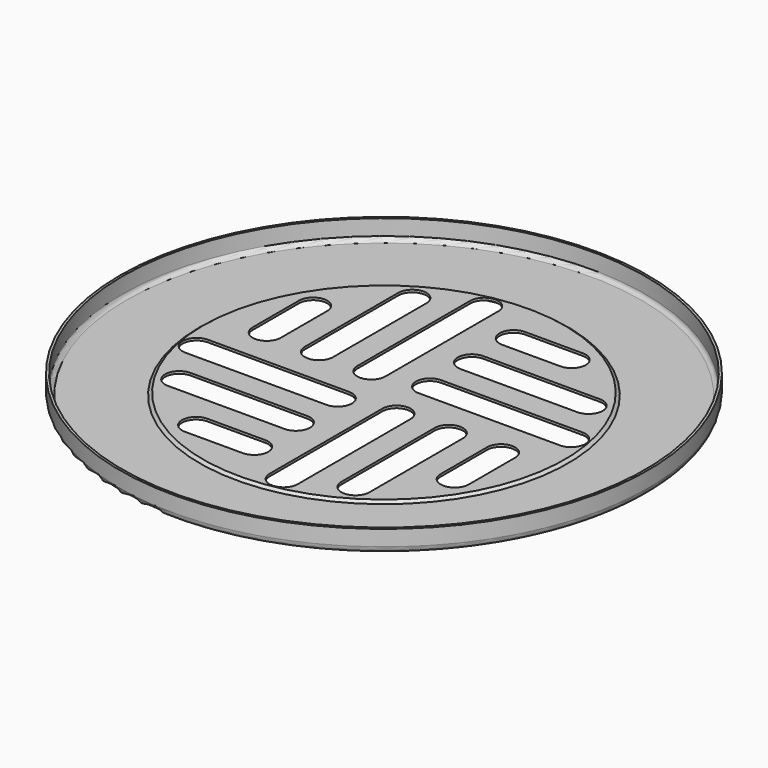
from build123d import *

# Parameters (mm, degrees)
F3_DEPTH = 4.896274


with BuildPart() as f1:
    # F0 (on Front) → F1 (revolve)
    with BuildSketch(Plane.XZ):
        with BuildLine():
            Line((-65, 1), (-65, 4.895274))
            Line((-65, 4.895274), (-65.6, 4.895274))
            Line((-65.6, 4.895274), (-65.6, 1))
            ThreePointArc((-65.6, 1), (-65.131371, -0.131371), (-64, -0.6))
            Line((-64, -0.6), (-45.582217, -0.6))
            Line((-45.582217, -0.6), (-44.797003, 0))
            Line((-44.797003, 0), (0, 0))
            Line((0, 0), (0, 0.6))
            Line((0, 0.6), (-45, 0.6))
            Line((-45, 0.6), (-45.785214, 0))
            Line((-45.785214, 0), (-64, 0))
            ThreePointArc((-64, 0), (-64.707107, 0.292893), (-65, 1))
        make_face()
    revolve(axis=Axis((0, 0, 2.485013), (0, 0, -1)))

    # F2 (on Top) → F3 (cut, through all)
    with BuildSketch(Plane.XY):
        with BuildLine():
            Line((-5.467376, -4), (-40.467376, -4))
            ThreePointArc((-40.467376, -4), (-44.034095, -7.466402), (-40.533936, -11))
            Line((-40.533936, -11), (-5.467376, -11))
            ThreePointArc((-5.467376, -11), (-1.967376, -7.5), (-5.467376, -4))
        make_face()
        with BuildLine():
            Line((-5.467376, -17), (-34.467376, -17))
            ThreePointArc((-34.467376, -17), (-37.967376, -20.5), (-34.467376, -24))
            Line((-34.467376, -24), (-5.467376, -24))
            ThreePointArc((-5.467376, -24), (-1.967376, -20.5), (-5.467376, -17))
        make_face()
        with BuildLine():
            Line((-5.467376, -30), (-19.874607, -30))
            ThreePointArc((-19.874607, -30), (-23.374607, -33.5), (-19.874607, -37))
            Line((-19.874607, -37), (-5.467376, -37))
            ThreePointArc((-5.467376, -37), (-1.967376, -33.5), (-5.467376, -30))
        make_face()
        with BuildLine():
            ThreePointArc((-30, 19.874607), (-33.5, 23.374607), (-37, 19.874607))
            Line((-37, 19.874607), (-37, 5.467376))
            ThreePointArc((-37, 5.467376), (-33.5, 1.967376), (-30, 5.467376))
            Line((-30, 5.467376), (-30, 19.874607))
        make_face()
        with BuildLine():
            ThreePointArc((-17, 34.467376), (-20.5, 37.967376), (-24, 34.467376))
            Line((-24, 34.467376), (-24, 5.467376))
            ThreePointArc((-24, 5.467376), (-20.5, 1.967376), (-17, 5.467376))
            Line((-17, 5.467376), (-17, 34.467376))
        make_face()
        with BuildLine():
            ThreePointArc((-4, 40.467376), (-7.466402, 44.034095), (-11, 40.533936))
            Line((-11, 40.533936), (-11, 5.467376))
            ThreePointArc((-11, 5.467376), (-7.5, 1.967376), (-4, 5.467376))
            Line((-4, 5.467376), (-4, 40.467376))
        make_face()
        with BuildLine():
            Line((17, -5.467376), (17, -34.467376))
            ThreePointArc((17, -34.467376), (20.5, -37.967376), (24, -34.467376))
            Line((24, -34.467376), (24, -5.467376))
            ThreePointArc((24, -5.467376), (20.5, -1.967376), (17, -5.467376))
        make_face()
        with BuildLine():
            Line((4, -5.467376), (4, -40.467376))
            ThreePointArc((4, -40.467376), (7.466402, -44.034095), (11, -40.533936))
            Line((11, -40.533936), (11, -5.467376))
            ThreePointArc((11, -5.467376), (7.5, -1.967376), (4, -5.467376))
        make_face()
        with BuildLine():
            Line((30, -5.467376), (30, -19.874607))
            ThreePointArc((30, -19.874607), (33.5, -23.374607), (37, -19.874607))
            Line((37, -19.874607), (37, -5.467376))
            ThreePointArc((37, -5.467376), (33.5, -1.967376), (30, -5.467376))
        make_face()
        with BuildLine():
            Line((5.467376, 4), (40.467376, 4))
            ThreePointArc((40.467376, 4), (44.034095, 7.466402), (40.533936, 11))
            Line((40.533936, 11), (5.467376, 11))
            ThreePointArc((5.467376, 11), (1.967376, 7.5), (5.467376, 4))
        make_face()
        with BuildLine():
            Line((5.467376, 17), (34.467376, 17))
            ThreePointArc((34.467376, 17), (37.967376, 20.5), (34.467376, 24))
            Line((34.467376, 24), (5.467376, 24))
            ThreePointArc((5.467376, 24), (1.967376, 20.5), (5.467376, 17))
        make_face()
        with BuildLine():
            Line((5.467376, 30), (19.874607, 30))
            ThreePointArc((19.874607, 30), (23.374607, 33.5), (19.874607, 37))
            Line((19.874607, 37), (5.467376, 37))
            ThreePointArc((5.467376, 37), (1.967376, 33.5), (5.467376, 30))
        make_face()
    extrude(amount=F3_DEPTH, mode=Mode.SUBTRACT)


solid = f1.part
